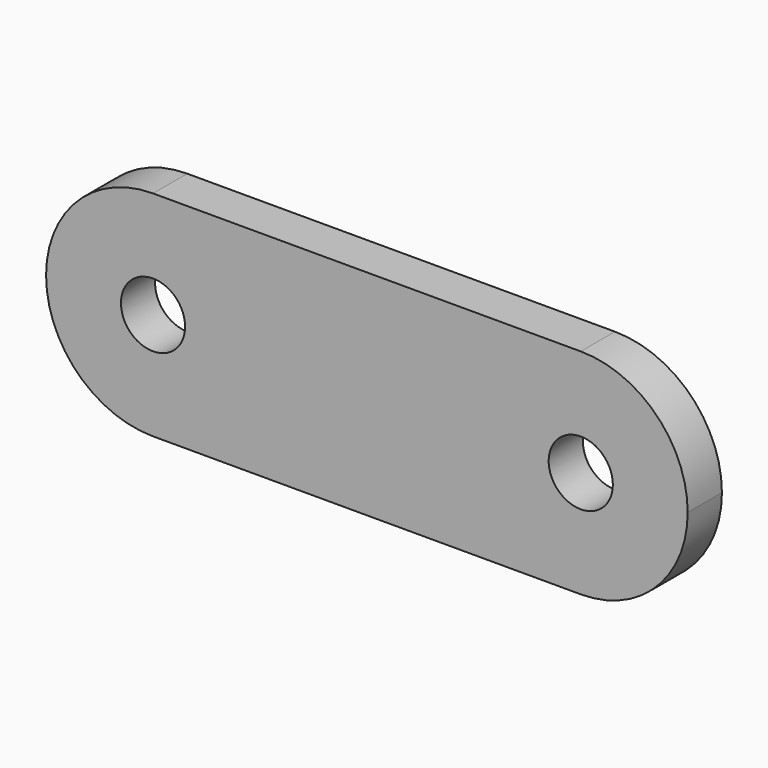
from build123d import *

# Parameters (mm, degrees)
F0_R     = 0.75
F1_DEPTH = 1


with BuildPart() as f1:
    # F0 (on Front) → F1 (new body)
    with BuildSketch(Plane.XZ):
        with BuildLine():
            ThreePointArc((0, -2.5), (1.767767, -1.767767), (2.5, 0))
            ThreePointArc((2.5, 0), (1.767767, 1.767767), (0, 2.5))
            ThreePointArc((0, 2.5), (-2.5, 0), (0, -2.5))
        make_face()
        Circle(F0_R, mode=Mode.SUBTRACT)
        with BuildLine():
            ThreePointArc((12.5, 0), (11.767767, 1.767767), (10, 2.5))
            ThreePointArc((10, 2.5), (7.5, 0), (10, -2.5))
            ThreePointArc((10, -2.5), (11.767767, -1.767767), (12.5, 0))
        make_face()
        with Locations((10, 0)):
            Circle(F0_R, mode=Mode.SUBTRACT)
        with BuildLine():
            ThreePointArc((0, 2.5), (1.767767, 1.767767), (2.5, 0))
            ThreePointArc((2.5, 0), (1.767767, -1.767767), (0, -2.5))
            Line((0, -2.5), (10, -2.5))
            ThreePointArc((10, -2.5), (7.5, 0), (10, 2.5))
            Line((10, 2.5), (0, 2.5))
        make_face()
    extrude(amount=F1_DEPTH)


solid = f1.part
